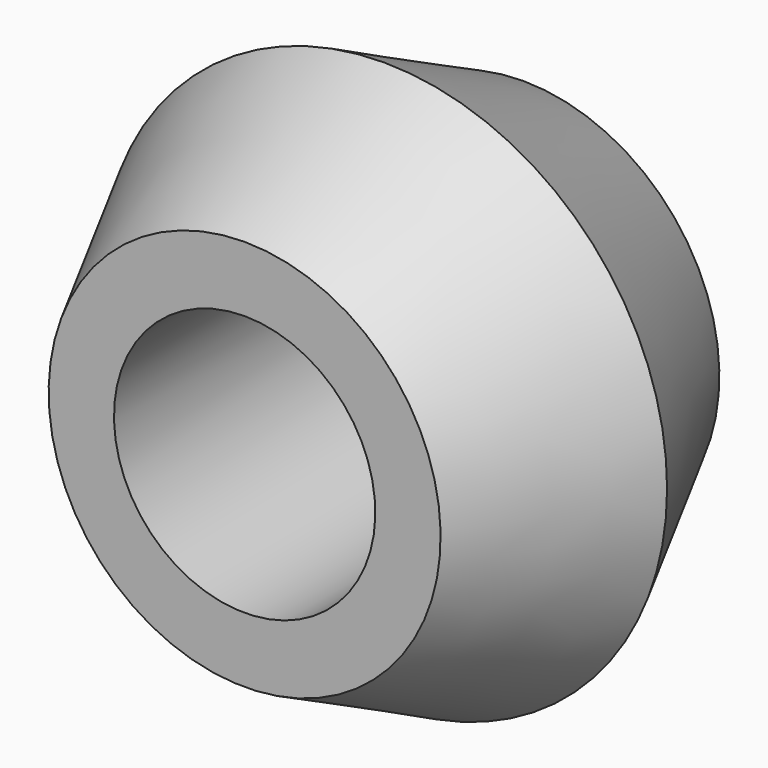
from build123d import *


with BuildPart() as f1:
    # F0 (on Right) → F1 (revolve)
    with BuildSketch(Plane.YZ):
        Polygon((-4, 3), (4, 3), (4, 4.5), (0, 6.5), (-4, 4.5), align=None)
    revolve(axis=Axis((0, -2, 0), (0, 1, 0)))


solid = f1.part
